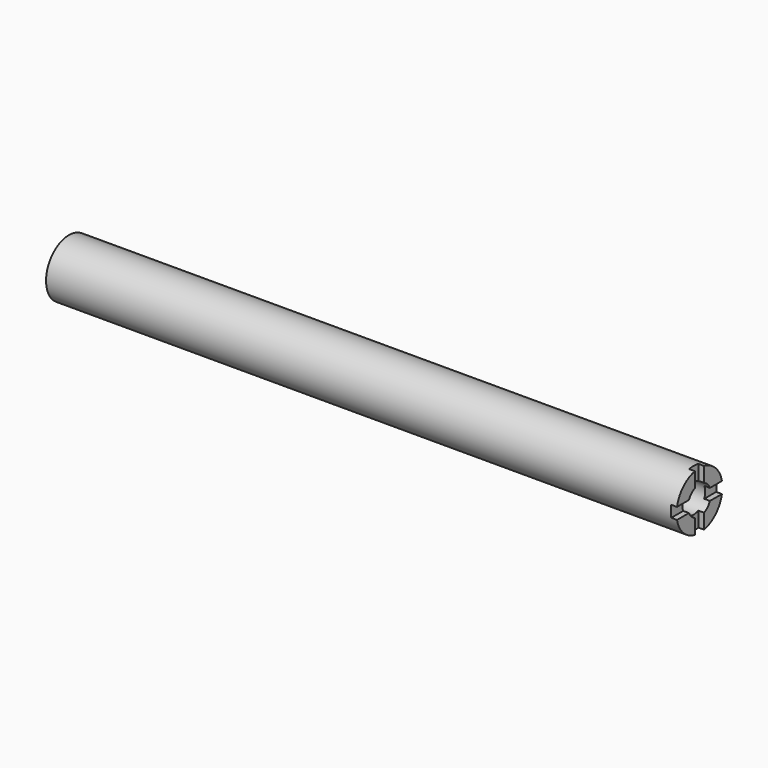
from build123d import *

# Parameters (mm, degrees)
F0_R     = 12.7
F1_DEPTH = 279.4
F3_DEPTH = 2.54
F4_R     = 6.345743
F5_DEPTH = 25.4


with BuildPart() as f1:
    # F0 (on Right) → F1 (new body)
    with BuildSketch(Plane.YZ):
        Circle(F0_R)
    extrude(amount=F1_DEPTH)

    # F2 (on face) → F3 (cut)
    with BuildSketch(Plane.YZ.offset(279.4)):
        with BuildLine():
            Line((17.428713, 2.54), (12.443408, 2.54))
            ThreePointArc((12.443408, 2.54), (12.635689, 1.276464), (12.7, 0))
            ThreePointArc((12.7, 0), (12.635689, -1.276464), (12.443408, -2.54))
            Line((12.443408, -2.54), (17.428713, -2.54))
            Line((17.428713, -2.54), (17.428713, 2.54))
        make_face()
        with BuildLine():
            ThreePointArc((-2.54, 12.443408), (0, 12.7), (2.54, 12.443408))
            Line((2.54, 12.443408), (2.54, 18.02417))
            Line((2.54, 18.02417), (-2.54, 18.02417))
            Line((-2.54, 18.02417), (-2.54, 12.443408))
        make_face()
        with BuildLine():
            ThreePointArc((-12.443408, -2.54), (-12.7, 0), (-12.443408, 2.54))
            Line((-12.443408, 2.54), (-17.28948, 2.54))
            Line((-17.28948, 2.54), (-17.28948, -2.54))
            Line((-17.28948, -2.54), (-12.443408, -2.54))
        make_face()
        with BuildLine():
            Line((2.54, -17.407856), (2.54, -12.443408))
            ThreePointArc((2.54, -12.443408), (0, -12.7), (-2.54, -12.443408))
            Line((-2.54, -12.443408), (-2.54, -17.407856))
            Line((-2.54, -17.407856), (2.54, -17.407856))
        make_face()
        with BuildLine():
            Line((12.443408, 2.54), (1.335046, 2.54))
            Line((1.335046, 2.54), (1.335046, -2.54))
            Line((1.335046, -2.54), (12.443408, -2.54))
            ThreePointArc((12.443408, -2.54), (12.635689, -1.276464), (12.7, 0))
            ThreePointArc((12.7, 0), (12.635689, 1.276464), (12.443408, 2.54))
        make_face()
        with BuildLine():
            Line((-2.623477, 2.54), (-12.443408, 2.54))
            ThreePointArc((-12.443408, 2.54), (-12.7, 0), (-12.443408, -2.54))
            Line((-12.443408, -2.54), (-2.623477, -2.54))
            Line((-2.623477, -2.54), (-2.623477, 2.54))
        make_face()
        with BuildLine():
            ThreePointArc((-2.54, -12.443408), (0, -12.7), (2.54, -12.443408))
            Line((2.54, -12.443408), (2.54, -3.909942))
            Line((2.54, -3.909942), (-2.54, -3.909942))
            Line((-2.54, -3.909942), (-2.54, -12.443408))
        make_face()
        with BuildLine():
            Line((2.54, 4.331574), (2.54, 12.443408))
            ThreePointArc((2.54, 12.443408), (0, 12.7), (-2.54, 12.443408))
            Line((-2.54, 12.443408), (-2.54, 4.331574))
            Line((-2.54, 4.331574), (2.54, 4.331574))
        make_face()
    extrude(amount=-F3_DEPTH, mode=Mode.SUBTRACT)

    # F4 (on face) → F5 (cut)
    with BuildSketch(Plane.YZ.offset(279.4)):
        Circle(F4_R)
    extrude(amount=-F5_DEPTH, mode=Mode.SUBTRACT)


solid = f1.part
